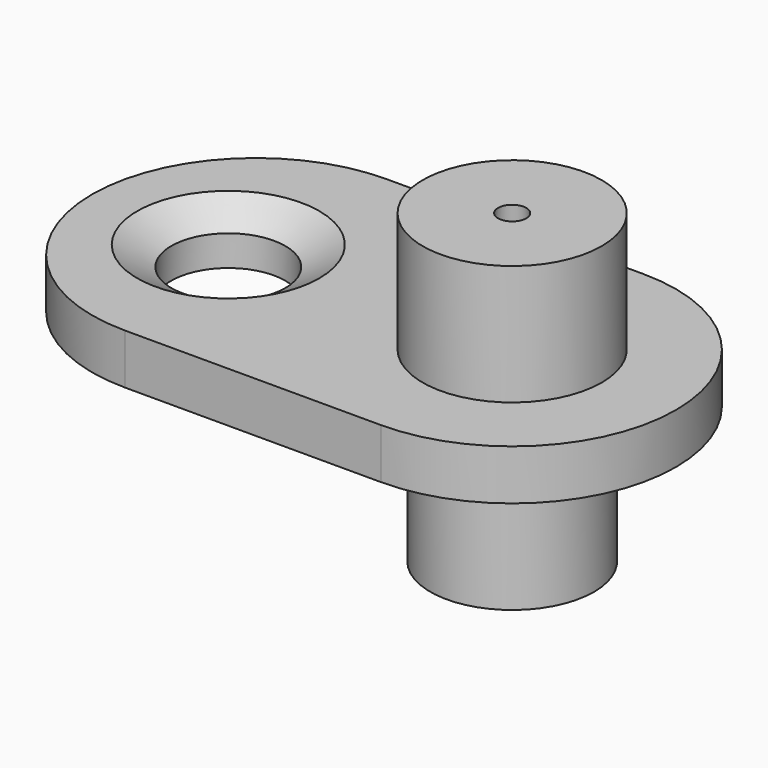
from build123d import *

# Parameters (mm, degrees)
F0_R     = 4.7625
F1_DEPTH = 7.9375
F2_R     = 3.3147
F3_DEPTH = 2.921
F4_R     = 5.207
F5_DEPTH = 6.985
F6_SIZE2 = 1.9797340731
F6_SIZE  = 1.143
F7_R     = 2.38125
F8_DEPTH = 25.4
F8_TAPER = 5


with BuildPart() as f1:
    # F0 (on Top) → F1 (new body)
    with BuildSketch(Plane.XY):
        Circle(F0_R)
    extrude(amount=F1_DEPTH)

    # F2 (on face) → F3 (join)
    with BuildSketch(Plane.XY.offset(7.9375)):
        with BuildLine():
            Line((-14.9098, -9.525), (0, -9.525))
            ThreePointArc((0, -9.525), (9.525, 0), (0, 9.525))
            Line((0, 9.525), (-14.9098, 9.525))
            ThreePointArc((-14.9098, 9.525), (-24.4348, 0), (-14.9098, -9.525))
        make_face()
        with Locations((-16.51, 0)):
            Circle(F2_R, mode=Mode.SUBTRACT)
    extrude(amount=F3_DEPTH)

    # F4 (on face) → F5 (join)
    with BuildSketch(Plane.XY.offset(10.8585)):
        Circle(F4_R)
    extrude(amount=F5_DEPTH)

    # F6
    f6_edges = [f1.edges().sort_by_distance(p)[0] for p in [
        (-19.8247, 0, 10.8585),
    ]]
    f6_side = f1.faces().sort_by_distance((-19.8247, 0, 9.398))[0]
    chamfer(f6_edges, length=F6_SIZE, length2=F6_SIZE2, reference=f6_side)

    # F7 (on face) → F8 (cut)
    with BuildSketch(Plane(origin=(0, 0, 0), x_dir=(1, 0, 0), z_dir=(0, 0, -1))):
        Circle(F7_R)
    extrude(amount=-F8_DEPTH, taper=F8_TAPER, mode=Mode.SUBTRACT)


solid = f1.part
